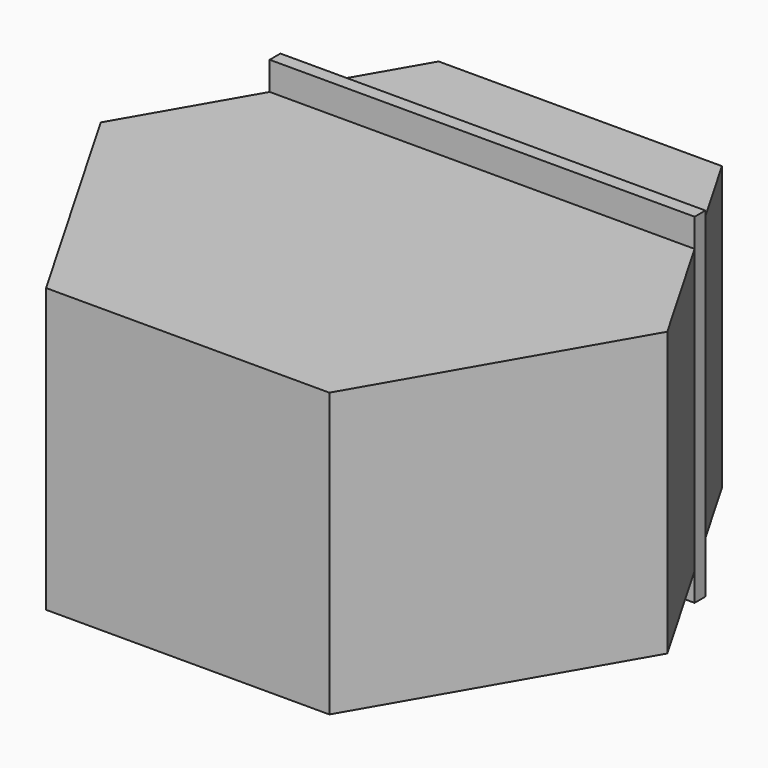
from build123d import *

# Parameters (mm, degrees)
F2_DEPTH = 50
F1_W     = 150
F1_H     = 4.752438
F3_DEPTH = 60


with BuildPart() as f2:
    # F0 (on Top) → F2 (new body, symmetric)
    with BuildSketch(Plane.XY):
        Polygon((50, 86.60254), (-50, 86.60254), (-100, 0), (-50, -86.60254), (50, -86.60254), (100, 0), align=None)
    extrude(amount=F2_DEPTH, both=True)


with BuildPart() as f3:
    # F1 (on Top) → F3 (new body, symmetric)
    with BuildSketch(Plane.XY):
        with Locations((0, 45.677489)):
            Rectangle(F1_W, F1_H)
    extrude(amount=F3_DEPTH, both=True)


with BuildPart() as f5:
    # F4 (on Front) → F5 (revolve)
    with BuildSketch(Plane.XZ):
        with BuildLine():
            Line((25, 0), (-25, 0))
            ThreePointArc((-25, 0), (0, -25), (25, 0))
        make_face()
    revolve(axis=Axis((0, 0, 0), (1, 0, 0)))


solid = Compound([f2.part, f3.part, f5.part])
